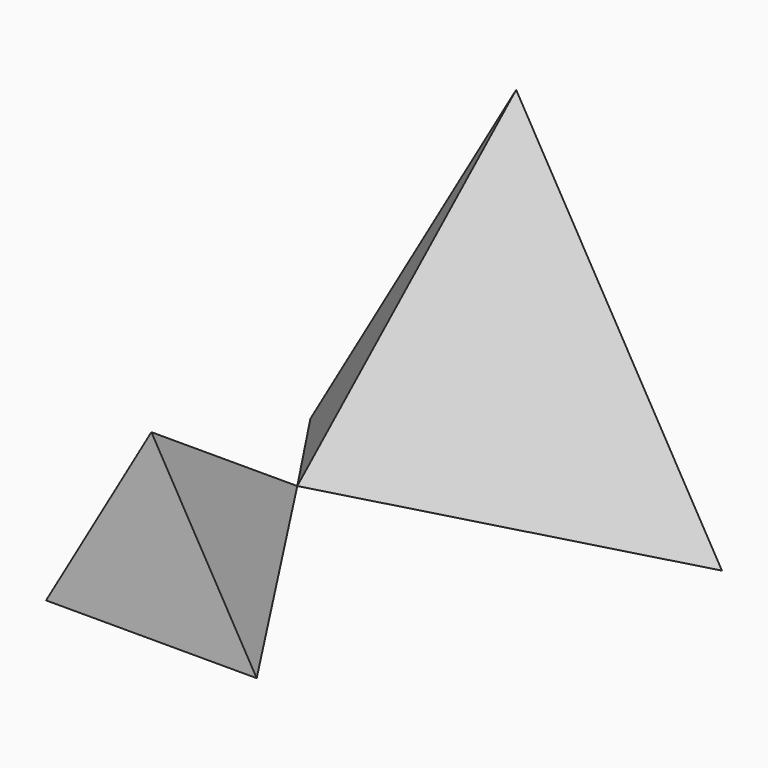
from build123d import *


with BuildPart() as f5:
    # F2 (on offset) → F5 section 0
    with BuildSketch(Plane.XZ.offset(20), mode=Mode.PRIVATE) as f5_s0:
        Polygon((-11.5470053838, -6.6666666667), (11.5470053838, -6.6666666667), (0, 13.3333333333), align=None)
    loft([f5_s0.sketch, Vertex(0, 0, 0)])


with BuildPart() as f6:
    # F4 (on offset) → F6 section 0
    with BuildSketch(Plane.XZ.offset(-30), mode=Mode.PRIVATE) as f6_s0:
        Polygon((22.5633149838, -13.0269359797), (0, 26.0538719594), (-22.5633149838, -13.0269359797), align=None)
    loft([f6_s0.sketch, Vertex(0, 0, 0)])


solid = Compound([f5.part, f6.part])
